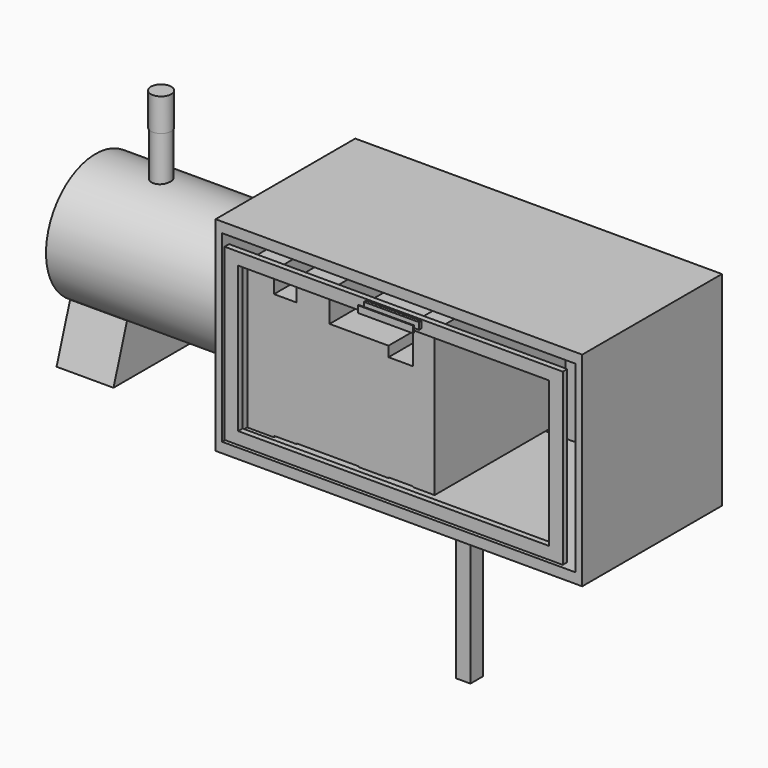
from build123d import *

# Parameters (mm, degrees)
F7_START       = -49.784
F3_R           = 4.0158055206
F7_DEPTH       = 55.626
F8_START       = -49.784
F2_R           = 16.8747634717
F8_DEPTH       = 51.816
F9_START       = -85.598
F9_DEPTH       = 15.494
F10_START      = 28.956
F5_R           = 2.7791124711
F10_DEPTH      = 8.89
F6_R           = 2.6110689317
F11_DEPTH      = 31.242
F0_W           = 49.8679839075
F0_H           = 55.4908066988
F12_DEPTH      = 23.876
F12_DEPTH_BACK = 23.622
F1_W           = 91.9930636883
F1_H           = 46.2730638683
F1_W_2         = 84.6188738942
F1_H_2         = 39.6362915635
F13_DEPTH      = 25.654
F14_W          = 96.130810678
F14_H          = 49.9601624906
F15_DEPTH      = 22.86
F15_DEPTH_BACK = 24.13
F17_START      = 24.638
F16_W          = 15.0146773085
F16_H          = 1.8435493112
F17_DEPTH      = 3.81
F19_START      = 26.416
F18_W          = 15.3833860531
F18_H          = 2.2122561932
F19_DEPTH      = 1.778
F20_W          = 3.9533865638
F20_H          = 47.9322560132
F21_DEPTH      = 2.032
F21_DEPTH_BACK = 2.286
F22_W          = 7.9272594303
F22_H          = 31.5246768296
F22_W_2        = 6.6367732361
F22_H_2        = 28.7593547255
F23_DEPTH      = 22.86
F23_DEPTH_BACK = 21.59


with BuildPart() as f7:
    # F3 (on Right) → F7 (new body)
    with BuildSketch(Plane.YZ.offset(F7_START)):
        Circle(F3_R)
    extrude(amount=-F7_DEPTH)

    # F2 (on Right) → F8 (join)
    with BuildSketch(Plane.YZ.offset(F8_START)):
        Circle(F2_R)
    extrude(amount=-F8_DEPTH)

    # F4 (on Right) → F9 (join)
    with BuildSketch(Plane.YZ.offset(F9_START)):
        with BuildLine():
            Line((13.9187918976, -28.2984673977), (9.1255651787, -14.1031453386))
            ThreePointArc((9.1255651787, -14.1031453386), (-0.0921771862, -16.89405352), (-9.309919551, -14.1031453386))
            Line((-9.309919551, -14.1031453386), (-13.9187891036, -28.2984673977))
            Line((-13.9187891036, -28.2984673977), (0, -28.2984673977))
            Line((0, -28.2984673977), (13.9187918976, -28.2984673977))
        make_face()
    extrude(amount=-F9_DEPTH)

    # F0 (on Front) → F12 (join, two sides)
    with BuildSketch(Plane.XZ) as f12_sk:
        with Locations((-24.9339919537, 0)):
            Rectangle(F0_W, F0_H)
        with Locations((24.9339919537, 0)):
            Rectangle(F0_W, F0_H)
    extrude(amount=F12_DEPTH)
    extrude(f12_sk.sketch, amount=-F12_DEPTH_BACK)

    # F1 (on Front) → F13 (join)
    with BuildSketch(Plane.XZ):
        Rectangle(F1_W, F1_H)
        Rectangle(F1_W_2, F1_H_2, mode=Mode.SUBTRACT)
    extrude(amount=F13_DEPTH)

    # F14 (on Front) → F15 (cut, two sides)
    with BuildSketch(Plane.XZ) as f15_sk:
        Rectangle(F14_W, F14_H)
    extrude(amount=-F15_DEPTH, mode=Mode.SUBTRACT)
    extrude(f15_sk.sketch, amount=F15_DEPTH_BACK, mode=Mode.SUBTRACT)

    # F16 (on Front) → F17 (join)
    with BuildSketch(Plane.XZ.offset(F17_START)):
        with Locations((0, 21.8460503966)):
            Rectangle(F16_W, F16_H)
    extrude(amount=F17_DEPTH)

    # F18 (on Front) → F19 (cut)
    with BuildSketch(Plane.XZ.offset(F19_START)):
        with Locations((0, 21.8460503966)):
            Rectangle(F18_W, F18_H)
    extrude(amount=F19_DEPTH, mode=Mode.SUBTRACT)

    # F20 (on Front) → F21 (join, two sides)
    with BuildSketch(Plane.XZ) as f21_sk:
        with Locations((0, -51.527177915)):
            Rectangle(F20_W, F20_H)
    extrude(amount=F21_DEPTH)
    extrude(f21_sk.sketch, amount=-F21_DEPTH_BACK)


with BuildPart() as f10:
    # F5 (on Top) → F10 (new body)
    with BuildSketch(Plane.XY.offset(F10_START)):
        with Locations((-83.7892740965, 0)):
            Circle(F5_R)
    extrude(amount=F10_DEPTH)


with BuildPart() as f11:
    # F6 (on Top) → F11 (new body)
    with BuildSketch(Plane.XY):
        with Locations((-83.8018581271, 0)):
            Circle(F6_R)
    extrude(amount=F11_DEPTH)


with BuildPart() as f23:
    # F22 (on Front) → F23 (new body, two sides)
    with BuildSketch(Plane.XZ) as f23_sk:
        Polygon((-34.7918570042, 20.0025010854), (-41.9816933572, 20.0025010854), (-41.9816933572, -20.0025010854), (-34.7918570042, -20.0025010854), (-34.7918570042, -19.6337904781), (-34.7918570042, 14.2875006422), align=None)
        Polygon((-28.7081450224, 14.2875006422), (-34.7918570042, 14.2875006422), (-34.7918570042, -19.6337904781), (-28.7081450224, -19.6337904781), (-28.7081450224, -19.4494351745), align=None)
        Polygon((-28.7081450224, 20.1868545264), (-28.7081450224, 14.2875006422), (-28.7081450224, -19.4494351745), (-19.6747593582, -19.4494351745), (-19.6747593582, 12.0752416551), (-19.6747593582, 20.1868545264), align=None)
        with Locations((-15.711129643, -3.6870967597)):
            Rectangle(F22_W, F22_H)
        Polygon((-11.7474999279, 12.0752416551), (-11.7474999279, -19.4494351745), (-11.7474999279, -19.6337904781), (-3.6358870566, -19.6337904781), (-3.6358870566, -19.4494351745), (-3.6358870566, 9.309919551), (-3.6358870566, 12.0752416551), align=None)
        with Locations((-0.3175004385, -5.0697578117)):
            Rectangle(F22_W_2, F22_H_2)
        Polygon((3.0008861795, 19.8181457818), (3.0008861795, 9.309919551), (3.0008861795, -19.4494351745), (3.0008861795, -19.6337904781), (8.900240995, -19.6337904781), (8.900240995, 19.8181457818), align=None)
    extrude(amount=F23_DEPTH)
    extrude(f23_sk.sketch, amount=-F23_DEPTH_BACK)


solid = Compound([f7.part, f10.part, f11.part, f23.part])
